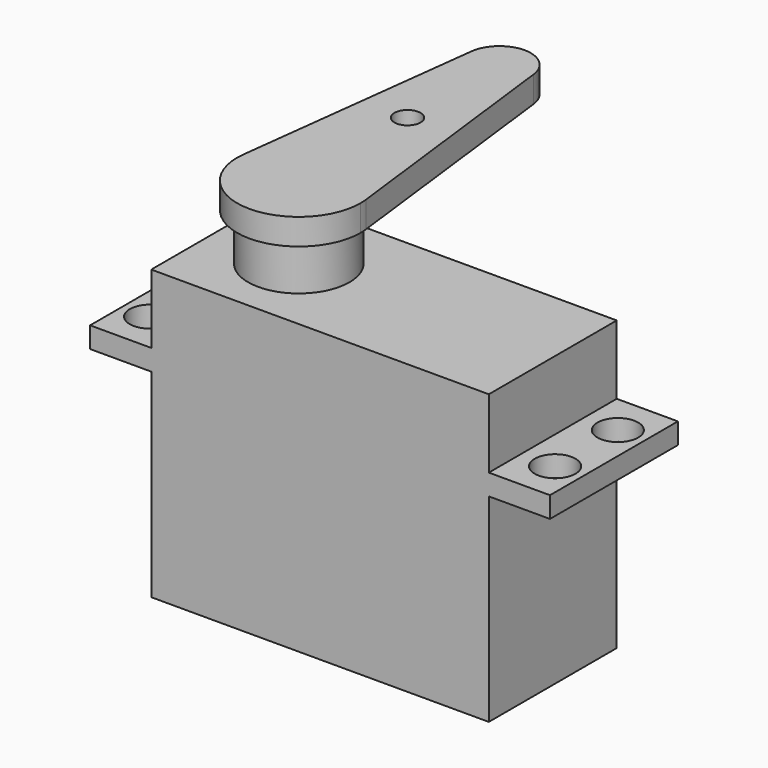
from build123d import *

# Parameters (mm, degrees)
F0_W     = 32.3
F0_H     = 15.3
F1_DEPTH = 27.6
F3_W     = 44
F3_H     = 15.3
F3_R     = 1.95
F4_DEPTH = 2
F5_R     = 4.85
F6_DEPTH = 4.5
F7_R     = 1.25
F8_DEPTH = 2.5


with BuildPart() as f1:
    # F0 (on Top) → F1 (new body)
    with BuildSketch(Plane.XY):
        Rectangle(F0_W, F0_H)
    extrude(amount=F1_DEPTH)

    # F3 (on offset) → F4 (join)
    with BuildSketch(Plane.XY.offset(19)):
        Rectangle(F3_W, F3_H)
        with Locations((-19.375, -3.75)):
            Circle(F3_R, mode=Mode.SUBTRACT)
        with Locations((19.375, -3.75)):
            Circle(F3_R, mode=Mode.SUBTRACT)
        with Locations((-19.375, 3.75)):
            Circle(F3_R, mode=Mode.SUBTRACT)
        with Locations((19.375, 3.75)):
            Circle(F3_R, mode=Mode.SUBTRACT)
    extrude(amount=F4_DEPTH)

    # F5 (on face) → F6 (join)
    with BuildSketch(Plane.XY.offset(27.6)):
        with Locations((-8.15, 0)):
            Circle(F5_R)
    extrude(amount=F6_DEPTH)

    # F7 (on face) → F8 (join)
    with BuildSketch(Plane.XY.offset(32.1)):
        with BuildLine():
            ThreePointArc((-14.00677, 0.712917), (-8.507113, -5.889182), (-2.25, 0))
            ThreePointArc((-2.25, 0), (-2.260818, 0.357113), (-2.29323, 0.712917))
            ThreePointArc((-2.29323, 0.712917), (-8.15, 5.9), (-14.00677, 0.712917))
        make_face()
        with BuildLine():
            ThreePointArc((-14.00677, 0.712917), (-8.15, 5.9), (-2.29323, 0.712917))
            Line((-2.29323, 0.712917), (-5.171982, 24.3625))
            ThreePointArc((-5.171982, 24.3625), (-5.1555, 24.181583), (-5.15, 24))
            ThreePointArc((-5.15, 24), (-8.331583, 21.0055), (-11.128018, 24.3625))
            Line((-11.128018, 24.3625), (-14.00677, 0.712917))
        make_face()
        with Locations((-8.15, 13)):
            Circle(F7_R, mode=Mode.SUBTRACT)
        with BuildLine():
            ThreePointArc((-5.15, 24), (-5.1555, 24.181583), (-5.171982, 24.3625))
            ThreePointArc((-5.171982, 24.3625), (-8.15, 27), (-11.128018, 24.3625))
            ThreePointArc((-11.128018, 24.3625), (-8.331583, 21.0055), (-5.15, 24))
        make_face()
    extrude(amount=F8_DEPTH)


solid = f1.part
